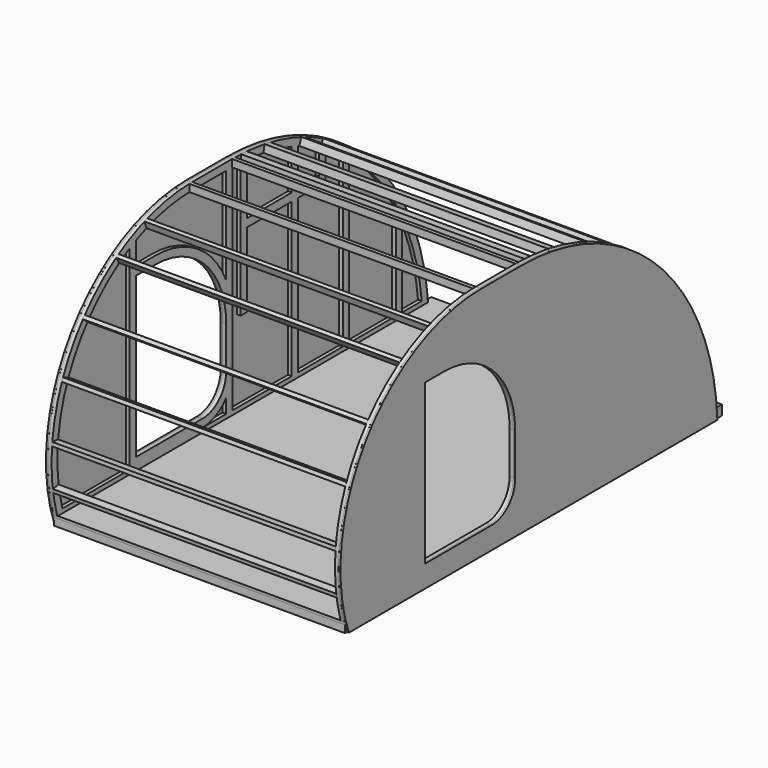
from build123d import *

# Parameters (mm, degrees)
F2_DEPTH  = 9.525
F4_W      = 1504.95
F4_H      = 2438.4
F4_W_2    = 1422.4
F4_H_2    = 506.4125
F4_H_3    = 568.325
F4_H_4    = 588.9625
F5_DEPTH  = 38.1
F6_W      = 1504.95
F6_H      = 2438.4
F7_DEPTH  = 12.7
F9_DEPTH  = 19.05
F12_DEPTH = 1466.85
F11_W     = 19.05
F11_H     = 38.1


with BuildPart() as f2:
    # F1 (on offset) → F2 (new body)
    with BuildSketch(Plane.YZ.offset(762)):
        with BuildLine():
            ThreePointArc((910.39043583, 1219.2), (165.424658306, 832.1036841148), (53.975, 0))
            Line((53.975, 0), (2438.4, 0))
            ThreePointArc((2438.4, 0), (2048.6483513191, 865.0670326241), (1168.4, 1219.2))
            Line((1168.4, 1219.2), (910.39043583, 1219.2))
        make_face()
        with BuildLine():
            Line((546.1, 114.3), (546.1, 939.8))
            Line((546.1, 939.8), (673.1, 939.8))
            ThreePointArc((673.1, 939.8), (996.3892203585, 805.8892203585), (1130.3, 482.6))
            Line((1130.3, 482.6), (1130.3, 266.7))
            ThreePointArc((1130.3, 266.7), (1085.6630734528, 158.9369265472), (977.9, 114.3))
            Line((977.9, 114.3), (546.1, 114.3))
        make_face(mode=Mode.SUBTRACT)
    extrude(amount=-F2_DEPTH)


with BuildPart() as f3_1:
    # F3: instance of F2
    add(f2.part.mirror(Plane.YZ))


with BuildPart() as f5:
    # F4 (on Top) → F5 (new body)
    with BuildSketch(Plane.XY):
        with Locations((0, 1260.475)):
            Rectangle(F4_W, F4_H)
        with Locations((0, 335.75625)):
            Rectangle(F4_W_2, F4_H_2, mode=Mode.SUBTRACT)
        with Locations((0, 914.4)):
            Rectangle(F4_W_2, F4_H_3, mode=Mode.SUBTRACT)
        with Locations((0, 1524)):
            Rectangle(F4_W_2, F4_H_3, mode=Mode.SUBTRACT)
        with Locations((0, 2143.91875)):
            Rectangle(F4_W_2, F4_H_4, mode=Mode.SUBTRACT)
    extrude(amount=F5_DEPTH)


with BuildPart() as f7:
    # F6 (on face) → F7 (new body)
    with BuildSketch(Plane.XY.offset(38.1)):
        with Locations((0, 1260.475)):
            Rectangle(F6_W, F6_H)
    extrude(amount=F7_DEPTH)


with BuildPart() as f9:
    # F8 (on face) → F9 (new body)
    with BuildSketch(Plane.YZ.offset(-752.475)):
        with BuildLine():
            Line((1168.4, 1219.2), (910.39043583, 1219.2))
            ThreePointArc((910.39043583, 1219.2), (181.1099050246, 853.7505270631), (37.325827426, 50.8))
            Line((37.325827426, 50.8), (2435.3058975841, 50.8))
            ThreePointArc((2435.3058975841, 50.8), (2425.8751966423, 133.4668310822), (2411.0562588576, 215.3395503747))
            ThreePointArc((2411.0562588576, 215.3395503747), (1967.1381266723, 936.8816181889), (1168.4, 1219.2))
        make_face()
        with BuildLine():
            ThreePointArc((2268.5375, 504.8136821568), (2351.6402684953, 294.7375678936), (2395.0174647345, 73.025))
            Line((2395.0174647345, 73.025), (2268.5375, 73.025))
            Line((2268.5375, 73.025), (2268.5375, 504.8136821568))
        make_face(mode=Mode.SUBTRACT)
        with BuildLine():
            Line((1595.4375, 868.3625), (1773.2375, 868.3625))
            Line((1773.2375, 868.3625), (1773.2375, 1022.552133076))
            ThreePointArc((1773.2375, 1022.552133076), (1829.7434476415, 988.7237614568), (1884.3625, 951.9264794278))
            Line((1884.3625, 951.9264794278), (1884.3625, 73.025))
            Line((1884.3625, 73.025), (1595.4375, 73.025))
            Line((1595.4375, 73.025), (1595.4375, 868.3625))
        make_face(mode=Mode.SUBTRACT)
        with BuildLine():
            Line((1925.6375, 73.025), (1925.6375, 921.1666510992))
            ThreePointArc((1925.6375, 921.1666510992), (2092.3518556861, 764.5357014994), (2227.2625, 579.8033307162))
            Line((2227.2625, 579.8033307162), (2227.2625, 73.025))
            Line((2227.2625, 73.025), (1925.6375, 73.025))
        make_face(mode=Mode.SUBTRACT)
        with BuildLine():
            ThreePointArc((546.1, 1101.3895808265), (723.9358350809, 1160.9394171267), (910.39043583, 1181.1))
            Line((910.39043583, 1181.1), (1130.3, 1181.1))
            Line((1130.3, 1181.1), (1130.3, 681.2088759975))
            ThreePointArc((1130.3, 681.2088759975), (1161.1471778553, 584.0262185655), (1171.575, 482.6))
            Line((1171.575, 482.6), (1171.575, 1181.0959120104))
            ThreePointArc((1171.575, 1181.0959120104), (1197.7753835764, 1180.7500142677), (1223.9625, 1179.8474189995))
            Line((1223.9625, 1179.8474189995), (1223.9625, 482.6))
            Line((1223.9625, 482.6), (1265.2375, 482.6))
            Line((1265.2375, 482.6), (1265.2375, 868.3625))
            Line((1265.2375, 868.3625), (1554.1625, 868.3625))
            Line((1554.1625, 868.3625), (1554.1625, 73.025))
            Line((1554.1625, 73.025), (1171.575, 73.025))
            Line((1171.575, 73.025), (1171.575, 266.7))
            ThreePointArc((1171.575, 266.7), (1160.9656653021, 203.4784228882), (1130.3, 147.183283073))
            Line((1130.3, 147.183283073), (1130.3, 73.025))
            Line((1130.3, 73.025), (977.9, 73.025))
            Line((977.9, 73.025), (504.825, 73.025))
            Line((504.825, 73.025), (70.5712625911, 73.025))
            ThreePointArc((70.5712625911, 73.025), (109.2716728001, 653.9172748372), (504.825, 1081.0836616901))
            Line((504.825, 1081.0836616901), (504.825, 981.075))
            Line((504.825, 981.075), (546.1, 981.075))
            Line((546.1, 981.075), (546.1, 1101.3895808265))
        make_face(mode=Mode.SUBTRACT)
        with BuildLine():
            Line((1554.1625, 909.6375), (1265.2375, 909.6375))
            Line((1265.2375, 909.6375), (1265.2375, 1177.2912712022))
            ThreePointArc((1265.2375, 1177.2912712022), (1411.4419500435, 1156.9083365642), (1554.1625, 1119.1982602307))
            Line((1554.1625, 1119.1982602307), (1554.1625, 909.6375))
        make_face(mode=Mode.SUBTRACT)
        with BuildLine():
            Line((1595.4375, 909.6375), (1595.4375, 1104.7856159137))
            ThreePointArc((1595.4375, 1104.7856159137), (1664.6083204598, 1076.8416066164), (1731.9625, 1044.7653762088))
            Line((1731.9625, 1044.7653762088), (1731.9625, 909.6375))
            Line((1731.9625, 909.6375), (1595.4375, 909.6375))
        make_face(mode=Mode.SUBTRACT)
        with BuildLine():
            Line((673.1, 981.075), (546.1, 981.075))
            Line((546.1, 981.075), (504.825, 981.075))
            Line((504.825, 981.075), (504.825, 73.025))
            Line((504.825, 73.025), (977.9, 73.025))
            ThreePointArc((977.9, 73.025), (1062.6425674445, 92.5486207694), (1130.3, 147.183283073))
            ThreePointArc((1130.3, 147.183283073), (1160.9656653021, 203.4784228882), (1171.575, 266.7))
            Line((1171.575, 266.7), (1171.575, 482.6))
            ThreePointArc((1171.575, 482.6), (1161.1471778553, 584.0262185655), (1130.3, 681.2088759975))
            ThreePointArc((1130.3, 681.2088759975), (946.4823020626, 899.4206359382), (673.1, 981.075))
        make_face()
        with BuildLine():
            Line((546.1, 114.3), (546.1, 939.8))
            Line((546.1, 939.8), (673.1, 939.8))
            ThreePointArc((673.1, 939.8), (996.3892203585, 805.8892203585), (1130.3, 482.6))
            Line((1130.3, 482.6), (1130.3, 266.7))
            ThreePointArc((1130.3, 266.7), (1085.6630734528, 158.9369265472), (977.9, 114.3))
            Line((977.9, 114.3), (546.1, 114.3))
        make_face(mode=Mode.SUBTRACT)
    extrude(amount=F9_DEPTH)


with BuildPart() as f10_1:
    # F10: instance of F9
    add(f9.part.mirror(Plane.YZ))


with BuildPart() as f12:
    # F11 (on face) → F12 (new body, through all)
    with BuildSketch(Plane.YZ.offset(-733.425)):
        Polygon((48.4561221427, 173.4480266902), (45.9122619046, 192.3274142621), (8.1534867609, 187.2396937859), (10.6973469989, 168.3603062141), align=None)
    extrude(amount=F12_DEPTH)


with BuildPart() as f12b:
    # F11 (on face) → F12, piece 2 (new body, through all)
    with BuildSketch(Plane.YZ.offset(-733.425)):
        Polygon((42.7985174853, 399.2245389441), (4.9037398617, 403.1736944059), (2.9291621308, 384.2263055941), (40.8239397544, 380.2771501324), align=None)
    extrude(amount=F12_DEPTH)


with BuildPart() as f12c:
    # F11 (on face) → F12, piece 3 (new body, through all)
    with BuildSketch(Plane.YZ.offset(-733.425)):
        Polygon((109.4601849389, 654.8792683454), (74.1637855582, 669.2240998452), (66.9913698083, 651.5759001548), (102.287769189, 637.231068655), align=None)
    extrude(amount=F12_DEPTH)


with BuildPart() as f12d:
    # F11 (on face) → F12, piece 4 (new body, through all)
    with BuildSketch(Plane.YZ.offset(-733.425)):
        Polygon((202.7577659172, 881.6598724948), (232.1182759381, 857.3788006215), (244.2588118747, 872.0590556319), (214.8983018538, 896.3401275052), align=None)
    extrude(amount=F12_DEPTH)


with BuildPart() as f12e:
    # F11 (on face) → F12, piece 5 (new body, through all)
    with BuildSketch(Plane.YZ.offset(-733.425)):
        Polygon((417.716902931, 1074.4297449754), (437.9979230293, 1042.1762145675), (454.1246882332, 1052.3167246166), (433.843668135, 1084.5702550246), align=None)
    extrude(amount=F12_DEPTH)


with BuildPart() as f12f:
    # F11 (on face) → F12, piece 6 (new body, through all)
    with BuildSketch(Plane.YZ.offset(-733.425)):
        Polygon((614.0877106496, 1129.2887077904), (632.0747161783, 1135.5632700947), (619.5255915698, 1171.5372811521), (601.5385860411, 1165.2627188479), align=None)
    extrude(amount=F12_DEPTH)


with BuildPart() as f12g:
    # F11 (on face) → F12, piece 7 (new body, through all)
    with BuildSketch(Plane.YZ.offset(-733.425)):
        Polygon((891.341478511, 1219.0006885366), (891.7401014378, 1180.9027738987), (910.7890587568, 1181.102085362), (910.39043583, 1219.2), align=None)
    extrude(amount=F12_DEPTH)


with BuildPart() as f12h:
    # F11 (on face) → F12, piece 8 (new body, through all)
    with BuildSketch(Plane.YZ.offset(-733.425)):
        with Locations((1177.925, 1200.15)):
            Rectangle(F11_W, F11_H)
    extrude(amount=F12_DEPTH)


with BuildPart() as f12i:
    # F11 (on face) → F12, piece 9 (new body, through all)
    with BuildSketch(Plane.YZ.offset(-733.425)):
        Polygon((1263.6157362649, 1215.7717991594), (1244.6, 1216.9138474525), (1242.3159034138, 1178.8823749227), (1261.3316396787, 1177.7403266296), align=None)
        Polygon((1242.3159034138, 1178.8823749227), (1244.6, 1216.9138474525), (1225.5842637351, 1218.0558957456), (1223.3001671489, 1180.0244232158), align=None)
    extrude(amount=F12_DEPTH)


with BuildPart() as f12j:
    # F11 (on face) → F12, piece 10 (new body, through all)
    with BuildSketch(Plane.YZ.offset(-733.425)):
        Polygon((1415.7393711545, 1195.0480082629), (1397, 1198.4741531422), (1390.1477102415, 1160.9954108332), (1408.887081396, 1157.5692659539), align=None)
        Polygon((1390.1477102415, 1160.9954108332), (1397, 1198.4741531422), (1378.2606288455, 1201.9002980215), (1371.408339087, 1164.4215557125), align=None)
    extrude(amount=F12_DEPTH)


with BuildPart() as f12k:
    # F11 (on face) → F12, piece 11 (new body, through all)
    with BuildSketch(Plane.YZ.offset(-733.425)):
        Polygon((1634.4874718715, 1130.6992681921), (1616.7125281285, 1137.5515579506), (1603.0079486115, 1102.0016704647), (1620.7828923544, 1095.1493807062), align=None)
    extrude(amount=F12_DEPTH)


with BuildPart() as f12l:
    # F11 (on face) → F12, piece 12 (new body, through all)
    with BuildSketch(Plane.YZ.offset(-733.425)):
        Polygon((1756.1739056497, 1032.1485808851), (1773.0587943253, 1023.3279780477), (1790.7, 1057.0977553988), (1773.8151113245, 1065.9183582362), align=None)
        Polygon((1739.2890169742, 1040.9691837225), (1756.1739056497, 1032.1485808851), (1773.8151113245, 1065.9183582362), (1756.9302226489, 1074.7389610736), align=None)
    extrude(amount=F12_DEPTH)


solid = Compound([f2.part, f3_1.part, f5.part, f7.part, f9.part, f10_1.part, f12.part, f12b.part, f12c.part, f12d.part, f12e.part, f12f.part, f12g.part, f12h.part, f12i.part, f12j.part, f12k.part, f12l.part])
